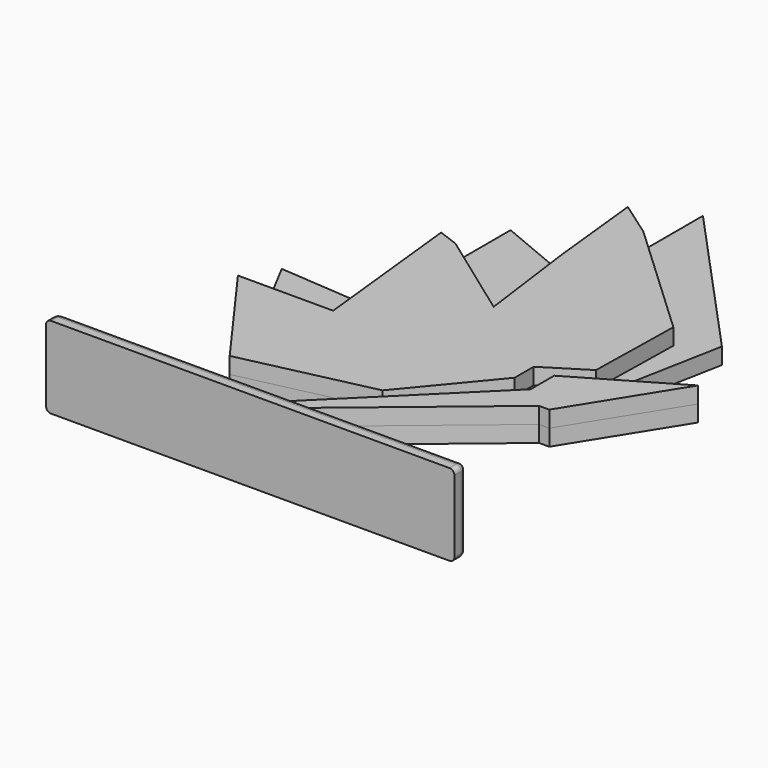
from build123d import *

# Parameters (mm, degrees)
PAD_DEPTH       = 10
POCKET_DEPTH    = 5
POCKET_FACE2_W  = 9.04
POCKET_FACE2_H  = 10
PAD001_DEPTH    = 4
SKETCH002_W     = 250
SKETCH002_H     = 50
PAD002_DEPTH    = 10
SKETCH003_W     = 10.04
SKETCH003_H     = 11
POCKET001_DEPTH = 5
FILLET_R        = 5
FILLET001_R     = 3
PAD003_DEPTH    = 10
PAD006_DEPTH    = 4
PAD004_DEPTH    = 10
PAD005_DEPTH    = 4


with BuildPart() as back:
    # Sketch → Pad (new body)
    with BuildSketch(Plane.XY):
        Polygon((0, 0), (98.69052, 82.029081), (104.94052, 82.029081), (144.812993, 146.012188), (96.816834, 117.965498), (96.816834, 127.979683), (106.057689, 144.386252), (116.551531, 199.658912), (24.948255, 299.626346), (24.948255, 254.066346), (3.136383, 269.395986), (9.35371, 211.026175), (-37.599752, 230.599865), (-37.599752, 188.369865), (-50.001043, 192.949862), (-42.881904, 126.771682), (-97.992689, 130.963851), (-80.280364, 97.468693), (-98.040364, 97.468693), (-49.124939, 30.018684), (30.198039, 47.793084), (34.66617, 43.281067), (-9.04, 0), align=None)
    extrude(amount=PAD_DEPTH)

    # Sketch001 (on Face25 of Pad) → Pocket (cut)
    with BuildSketch(Plane.XY.offset(10)):
        Polygon((-33.84387, 69.39439), (-27.451828, 61.70402), (-19.761458, 68.096062), (-26.1535, 75.786432), align=None)
        Polygon((50.750201, 139.706857), (57.142244, 132.016487), (64.832614, 138.40853), (58.440572, 146.0989), align=None)
        Polygon((100.298478, 109.719451), (106.69052, 102.029081), (114.38089, 108.421124), (107.988848, 116.111494), align=None)
        Polygon((35.89911, 40.241059), (39.734335, 35.626837), (44.348558, 39.462062), (40.513332, 44.076284), align=None)
    extrude(amount=-POCKET_DEPTH, mode=Mode.SUBTRACT)

    # Pocket Face2 → Pad001 (add)
    with BuildSketch(Plane(origin=(-4.52, 0, 5), x_dir=(-1, 0, 0), z_dir=(0, -1, 0))):
        Rectangle(POCKET_FACE2_W, POCKET_FACE2_H)
    extrude(amount=PAD001_DEPTH)


with BuildPart() as foot:
    # Sketch002 (on Face1 of ShapeBinder) → Pad002 (new body)
    with BuildSketch(Plane.XZ):
        with Locations((-4.52, 5)):
            Rectangle(SKETCH002_W, SKETCH002_H)
    extrude(amount=PAD002_DEPTH)

    # Sketch003 (on Face5 of Pad002) → Pocket001 (cut)
    with BuildSketch(Plane(origin=(0, 0, 0), x_dir=(-1, 0, 0), z_dir=(0, 1, 0))):
        with Locations((4.52, 5)):
            Rectangle(SKETCH003_W, SKETCH003_H)
    extrude(amount=-POCKET001_DEPTH, mode=Mode.SUBTRACT)

    # Fillet
    fillet_edges = [foot.edges().sort_by_distance(p)[0] for p in [
        (-4.52, 0, 30),
        (-129.52, 0, 5),
        (-4.52, 0, -20),
        (120.48, 0, 5),
    ]]
    fillet(fillet_edges, radius=FILLET_R)

    # Fillet001
    fillet001_edges = [foot.edges().sort_by_distance(p)[0] for p in [
        (120.48, -7.5, 30),
        (-129.52, -7.5, 30),
        (-127.750245, -1.18352, 28.230245),
        (118.710245, -1.18352, 28.230245),
        (118.710245, -1.18352, -18.230245),
        (120.48, -7.5, -20),
        (-129.52, -7.5, -20),
        (-127.750245, -1.18352, -18.230245),
    ]]
    fillet(fillet001_edges, radius=FILLET001_R)


with BuildPart() as frontwings:
    # Sketch004 (on Face1 of ShapeBinder001) → Pad003 (new body)
    with BuildSketch(Plane.XY.offset(10)):
        Polygon((30.198039, 47.793084), (-49.124939, 30.018684), (-98.040364, 97.468693), (-39.729625, 97.468693), (-50.001043, 192.949862), (-37.599752, 188.369865), (17.693781, 148.520245), (9.35371, 211.026175), (3.136383, 269.395986), (24.948255, 254.066346), (97.926551, 185.774464), (96.816834, 127.979683), (71.392053, 112.055472), (71.392053, 97.499712), align=None)
    extrude(amount=PAD003_DEPTH)

    # Sketch007 (on Face15 of Pad003) → Pad006 (join)
    with BuildSketch(Plane(origin=(0, 0, 10), x_dir=(1, 0, 0), z_dir=(0, 0, -1))):
        Polygon((58.375655, -145.394779), (64.128493, -138.473446), (57.20716, -132.720608), (51.454322, -139.641941), align=None)
        Polygon((-20.465578, -68.160979), (-26.218416, -75.082312), (-33.139749, -69.329474), (-27.386911, -62.40814), align=None)
    extrude(amount=PAD006_DEPTH)


with BuildPart() as frontbody:
    # Sketch005 (on Face1 of ShapeBinder002) → Pad004 (new body)
    with BuildSketch(Plane.XY.offset(10)):
        Polygon((-9.04, 0), (0, 0), (98.69052, 82.029081), (104.94052, 82.029081), (144.812993, 146.012188), (84.817065, 110.953398), (84.817065, 92.944174), align=None)
    extrude(amount=PAD004_DEPTH)

    # Sketch006 (on Face8 of Pad004) → Pad005 (join)
    with BuildSketch(Plane(origin=(0, 0, 10), x_dir=(1, 0, 0), z_dir=(0, 0, -1))):
        Polygon((113.67677, -108.48604), (107.923931, -115.407373), (101.002598, -109.654535), (106.755436, -102.733202), align=None)
        Polygon((43.644437, -39.526978), (40.448416, -43.372164), (36.603231, -40.176142), (39.799252, -36.330957), align=None)
    extrude(amount=PAD005_DEPTH)


solid = Compound([back.part, foot.part, frontwings.part, frontbody.part])
